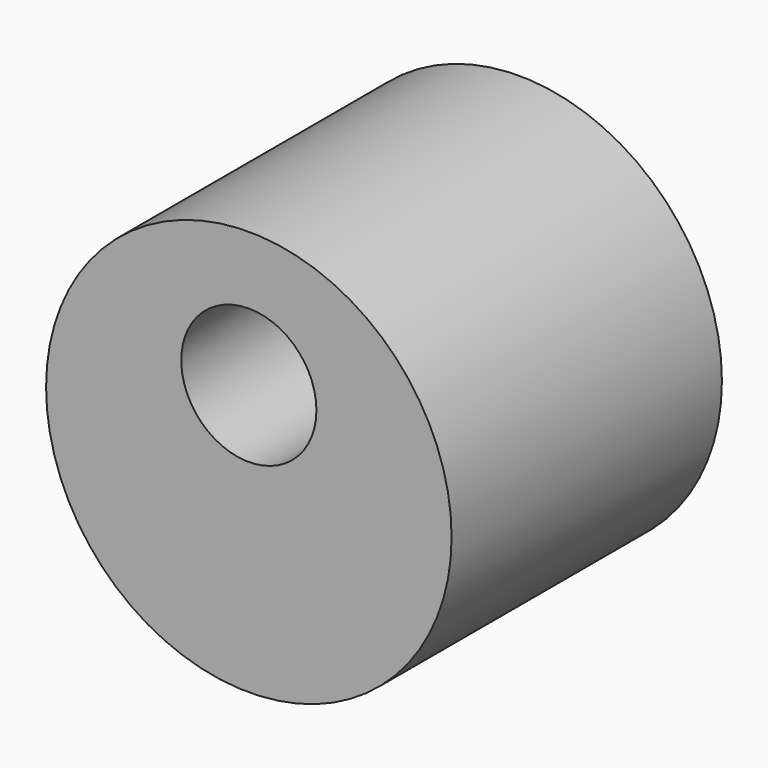
from build123d import *

# Parameters (mm, degrees)
F0_R     = 152.4
F1_DEPTH = 254
F2_DEPTH = 127


with BuildPart() as f1:
    # F0 (on Front) → F1 (new body)
    with BuildSketch(Plane.XZ):
        with Locations((0, -51.59375)):
            Circle(F0_R)
        with BuildLine():
            ThreePointArc((101.6, -51.59375), (-71.8420489686, -123.4357989686), (0, 50.00625))
            ThreePointArc((0, 50.00625), (71.8420489686, 20.2482989686), (101.6, -51.59375))
        make_face(mode=Mode.SUBTRACT)
        with BuildLine():
            ThreePointArc((101.6, -51.59375), (71.8420489686, 20.2482989686), (0, 50.00625))
            ThreePointArc((0, 50.00625), (-71.8420489686, -123.4357989686), (101.6, -51.59375))
        make_face()
        with BuildLine():
            ThreePointArc((0, 50.00625), (35.9210244843, 35.1272744843), (50.8, -0.79375))
            ThreePointArc((50.8, -0.79375), (-35.9210244843, -36.7147744843), (0, 50.00625))
        make_face(mode=Mode.SUBTRACT)
    extrude(amount=F1_DEPTH)

    # F0 (on Front) → F2 (cut)
    with BuildSketch(Plane.XZ):
        with BuildLine():
            ThreePointArc((101.6, -51.59375), (71.8420489686, 20.2482989686), (0, 50.00625))
            ThreePointArc((0, 50.00625), (-71.8420489686, -123.4357989686), (101.6, -51.59375))
        make_face()
        with BuildLine():
            ThreePointArc((0, 50.00625), (35.9210244843, 35.1272744843), (50.8, -0.79375))
            ThreePointArc((50.8, -0.79375), (-35.9210244843, -36.7147744843), (0, 50.00625))
        make_face(mode=Mode.SUBTRACT)
        with BuildLine():
            ThreePointArc((0, 50.00625), (-35.9210244843, -36.7147744843), (50.8, -0.79375))
            ThreePointArc((50.8, -0.79375), (35.9210244843, 35.1272744843), (0, 50.00625))
        make_face()
        with BuildLine():
            ThreePointArc((1.5875, -0.79375), (-1.1225320151, -1.9162820151), (0, 0.79375))
            ThreePointArc((0, 0.79375), (1.1225320151, 0.3287820151), (1.5875, -0.79375))
        make_face(mode=Mode.SUBTRACT)
    extrude(amount=F2_DEPTH, mode=Mode.SUBTRACT)


solid = f1.part
